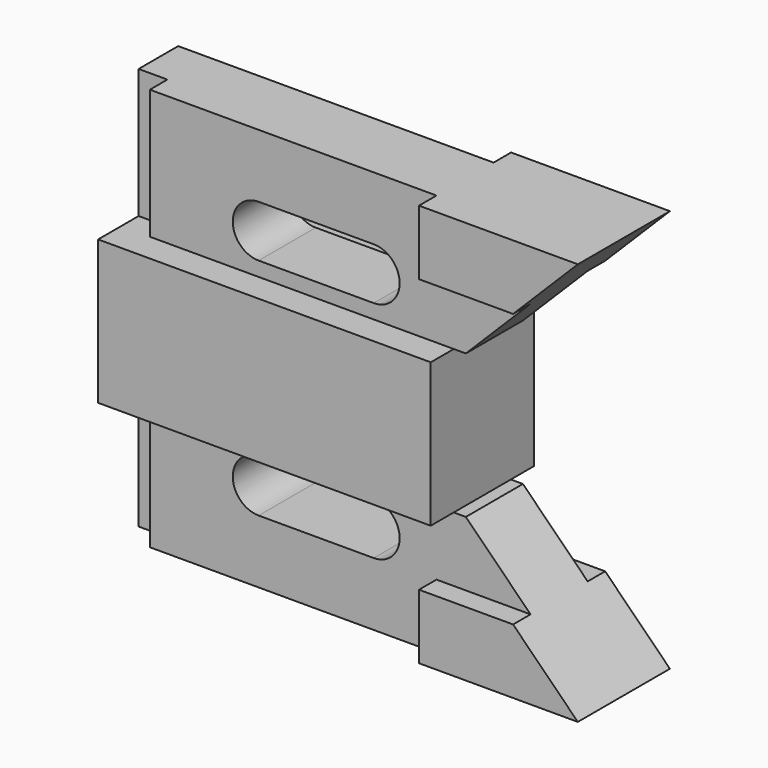
from build123d import *

# Parameters (mm, degrees)
F1_DEPTH = 14.224
F2_DEPTH = 12.7
F3_DEPTH = 7.874
F0_W     = 6.35
F0_H     = 28.575
F4_DEPTH = 7.874
F5_DEPTH = 3.048


with BuildPart() as f1:
    # F0 (on Front) → F1 (new body, symmetric)
    with BuildSketch(Plane.XZ):
        Polygon((-45.974, 0), (-52.324, 0), (-52.324, -15.875), (21.082, -15.875), (21.082, 0), align=None)
    extrude(amount=F1_DEPTH, both=True)



with BuildPart() as f2:
    # F0 (on Front) → F2 (new body, symmetric)
    with BuildSketch(Plane.XZ):
        Polygon((52.324, 28.575), (17.272, 28.575), (17.272, 14.2875), (38.0365, 14.2875), align=None)
    extrude(amount=F2_DEPTH, both=True)


with BuildPart() as f1_1:
    add(f1.part)

    add(f2.part)  # F3 merges F2
    # F0 (on Front) → F3 (join, symmetric)
    with BuildSketch(Plane.XZ):
        Polygon((17.272, 28.575), (-45.974, 28.575), (-45.974, 0), (21.082, 0), (23.749, 0), (38.0365, 14.2875), (17.272, 14.2875), align=None)
        with BuildLine():
            ThreePointArc((-21.971, 3.175), (-27.686, 8.89), (-21.971, 14.605))
            Line((-21.971, 14.605), (3.429, 14.605))
            ThreePointArc((3.429, 14.605), (9.144, 8.89), (3.429, 3.175))
            Line((3.429, 3.175), (-21.971, 3.175))
        make_face(mode=Mode.SUBTRACT)
    extrude(amount=F3_DEPTH, both=True)

    # F0 (on Front) → F4 (join)
    with BuildSketch(Plane.XZ):
        with Locations((-49.149, 14.2875)):
            Rectangle(F0_W, F0_H)
    extrude(amount=-F4_DEPTH)

    # F0 (on Front) → F5 (join)
    with BuildSketch(Plane.XZ):
        with Locations((-49.149, 14.2875)):
            Rectangle(F0_W, F0_H)
    extrude(amount=F5_DEPTH)

    # F6: F1 across face


with BuildPart() as f1_2:
    add(f1_1.part)
    add(f1_1.part.mirror(Plane(origin=(-15.621, 0, -15.875), x_dir=(1, 0, 0), z_dir=(0, 0, -1))))


solid = f1_2.part
